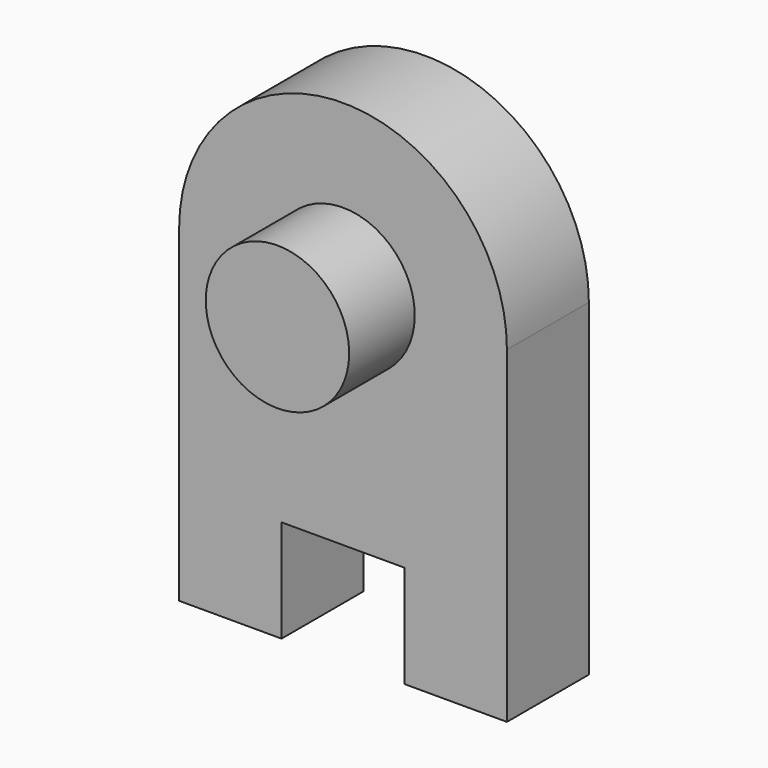
from build123d import *

# Parameters (mm, degrees)
F1_DEPTH = 250
F2_R     = 175
F3_DEPTH = 200


with BuildPart() as f1:
    # F0 (on Front) → F1 (new body)
    with BuildSketch(Plane.XZ):
        with BuildLine():
            Line((400, -800), (400, 0))
            ThreePointArc((400, 0), (0, 400), (-400, 0))
            Line((-400, 0), (-400, -800))
            Line((-400, -800), (-150, -800))
            Line((-150, -800), (-150, -550))
            Line((-150, -550), (150, -550))
            Line((150, -550), (150, -800))
            Line((150, -800), (400, -800))
        make_face()
    extrude(amount=F1_DEPTH)

    # F2 (on face) → F3 (join)
    with BuildSketch(Plane.XZ.offset(250)):
        Circle(F2_R)
    extrude(amount=F3_DEPTH)


solid = f1.part
